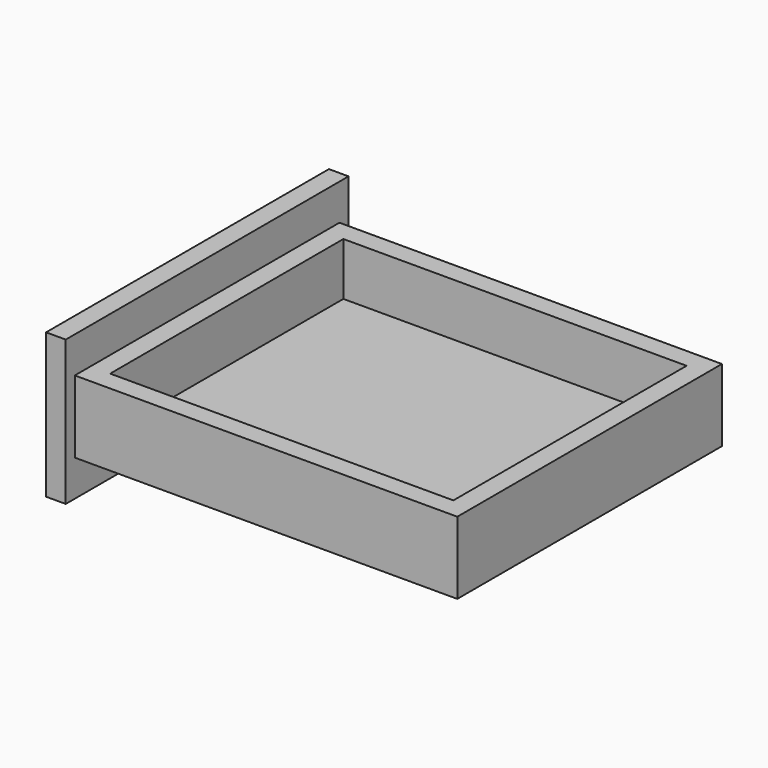
from build123d import *

# Parameters (mm, degrees)
F0_W     = 370
F0_H     = 320
F1_DEPTH = 70
F2_W     = 332
F2_H     = 282
F3_DEPTH = 51
F4_W     = 342
F4_H     = 140
F5_DEPTH = 19


with BuildPart() as f1:
    # F0 (on Top) → F1 (new body)
    with BuildSketch(Plane.XY):
        Rectangle(F0_W, F0_H)
    extrude(amount=F1_DEPTH)

    # F2 (on face) → F3 (cut)
    with BuildSketch(Plane.XY.offset(70)):
        Rectangle(F2_W, F2_H)
    extrude(amount=-F3_DEPTH, mode=Mode.SUBTRACT)

    # F4 (on face) → F5 (join)
    with BuildSketch(Plane(origin=(-185, 0, 0), x_dir=(0, -1, 0), z_dir=(-1, 0, 0))):
        with Locations((0, 35)):
            Rectangle(F4_W, F4_H)
    extrude(amount=F5_DEPTH)


solid = f1.part
